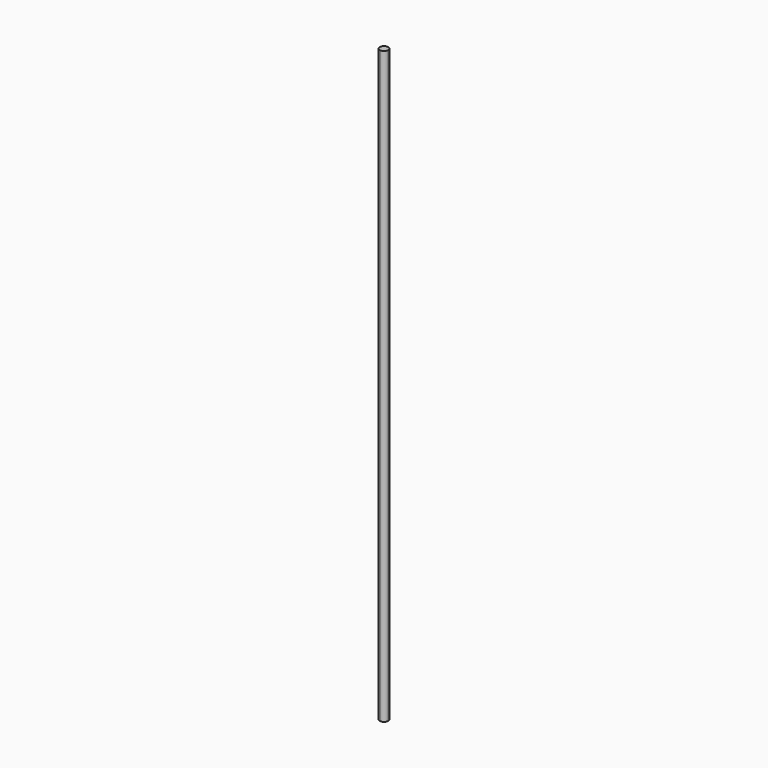
from build123d import *

# Parameters (mm, degrees)
F1_DEPTH = 180


with BuildPart() as f1:
    # F0 (on Top) → F1 (new body)
    with BuildSketch(Plane.XY):
        with BuildLine():
            Line((0, 0), (0, 1.27))
            ThreePointArc((0, 1.27), (-0.8980256121, 0.8980256121), (-1.27, 0))
            Line((-1.27, 0), (0, 0))
        make_face()
        with BuildLine():
            ThreePointArc((1.27, 0), (0.8980256121, 0.8980256121), (0, 1.27))
            Line((0, 1.27), (0, 0))
            Line((0, 0), (1.27, 0))
        make_face()
        with BuildLine():
            Line((1.27, 0), (0, 0))
            Line((0, 0), (0, -1.27))
            ThreePointArc((0, -1.27), (0.8980256121, -0.8980256121), (1.27, 0))
        make_face()
        with BuildLine():
            Line((0, -1.27), (0, 0))
            Line((0, 0), (-1.27, 0))
            ThreePointArc((-1.27, 0), (-0.8980256121, -0.8980256121), (0, -1.27))
        make_face()
    extrude(amount=F1_DEPTH)


solid = f1.part
